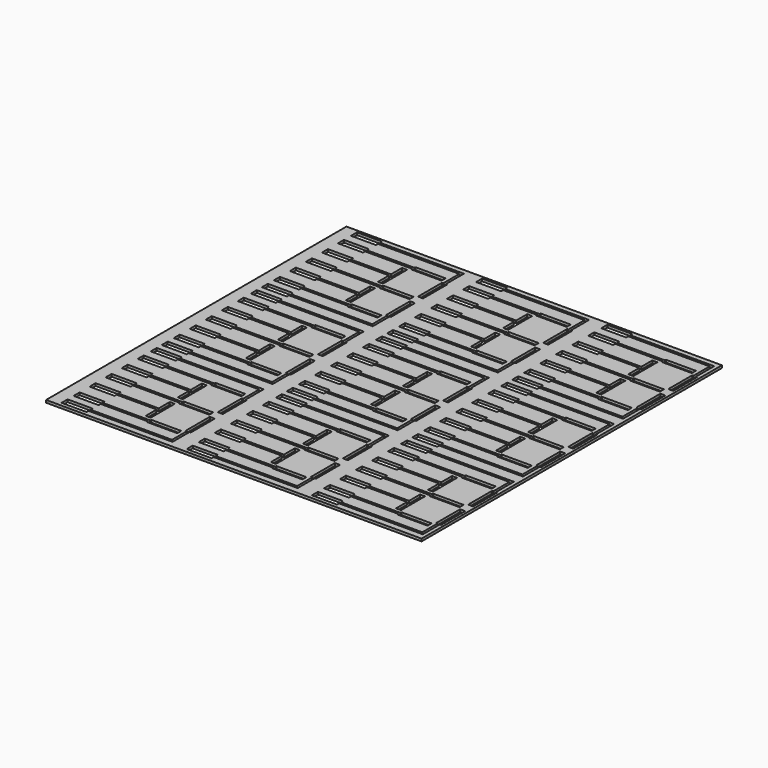
from build123d import *

# Parameters (mm, degrees)
F0_W     = 150
F0_H     = 150
F1_DEPTH = 1
F4_DEPTH = 1.001


with BuildPart() as f1:
    # F0 (on Top) → F1 (new body)
    with BuildSketch(Plane.XY):
        with Locations((75, 75)):
            Rectangle(F0_W, F0_H)
    extrude(amount=F1_DEPTH)

    # F3 (on face) → F4 (cut, through all)
    with BuildSketch(Plane.XY.offset(1)):
        Polygon((46, 142), (34, 142), (34, 141.5), (15, 141.5), (15, 142.5), (5, 142.5), (5, 139.5), (15, 139.5), (15, 140.5), (34, 140.5), (34, 140), (46, 140), align=None)
        Polygon((47.5, 139), (47, 139), (47, 127), (49, 127), (49, 139), (48.5, 139), align=None)
        Polygon((47.5, 147), (47.5, 139), (48.5, 139), (48.5, 148), (15, 148), (15, 149), (5, 149), (5, 146), (15, 146), (15, 147), align=None)
        Polygon((46, 124), (46, 126), (34, 126), (34, 125.5), (15, 125.5), (15, 126.5), (5, 126.5), (5, 123.5), (15, 123.5), (15, 124.5), (34, 124.5), (34, 124), align=None)
        Polygon((49, 123), (47, 123), (47, 111), (47.5, 111), (47.5, 103.5), (15, 103.5), (15, 104.5), (5, 104.5), (5, 101.5), (15, 101.5), (15, 102.5), (48.5, 102.5), (48.5, 111), (49, 111), align=None)
        Polygon((46, 108), (46, 110), (34, 110), (34, 109.5), (15, 109.5), (15, 110.5), (5, 110.5), (5, 107.5), (15, 107.5), (15, 108.5), (34, 108.5), (34, 108), align=None)
        Polygon((31, 111), (33, 111), (33, 123), (31, 123), (31, 117.5), (15, 117.5), (15, 118.5), (5, 118.5), (5, 115.5), (15, 115.5), (15, 116.5), (31, 116.5), align=None)
        Polygon((31, 127), (33, 127), (33, 139), (31, 139), (31, 133.5), (15, 133.5), (15, 134.5), (5, 134.5), (5, 131.5), (15, 131.5), (15, 132.5), (31, 132.5), align=None)
        Polygon((81, 132.5), (81, 127), (83, 127), (83, 139), (81, 139), (81, 133.5), (65, 133.5), (65, 134.5), (55, 134.5), (55, 131.5), (65, 131.5), (65, 132.5), align=None)
        Polygon((65, 117.5), (65, 118.5), (55, 118.5), (55, 115.5), (65, 115.5), (65, 116.5), (81, 116.5), (81, 111), (83, 111), (83, 123), (81, 123), (81, 117.5), align=None)
        Polygon((65, 102.5), (98.5, 102.5), (98.5, 111), (99, 111), (99, 123), (97, 123), (97, 111), (97.5, 111), (97.5, 103.5), (65, 103.5), (65, 104.5), (55, 104.5), (55, 101.5), (65, 101.5), align=None)
        Polygon((84, 110), (84, 109.5), (65, 109.5), (65, 110.5), (55, 110.5), (55, 107.5), (65, 107.5), (65, 108.5), (84, 108.5), (84, 108), (96, 108), (96, 110), align=None)
        Polygon((55, 142.5), (55, 139.5), (65, 139.5), (65, 140.5), (84, 140.5), (84, 140), (96, 140), (96, 142), (84, 142), (84, 141.5), (65, 141.5), (65, 142.5), align=None)
        Polygon((65, 147), (97.5, 147), (97.5, 139), (98.5, 139), (98.5, 148), (65, 148), (65, 149), (55, 149), (55, 146), (65, 146), align=None)
        Polygon((98.5, 139), (97.5, 139), (97, 139), (97, 127), (99, 127), (99, 139), align=None)
        Polygon((65, 124.5), (84, 124.5), (84, 124), (96, 124), (96, 126), (84, 126), (84, 125.5), (65, 125.5), (65, 126.5), (55, 126.5), (55, 123.5), (65, 123.5), align=None)
        Polygon((131, 132.5), (131, 127), (133, 127), (133, 139), (131, 139), (131, 133.5), (115, 133.5), (115, 134.5), (105, 134.5), (105, 131.5), (115, 131.5), (115, 132.5), align=None)
        Polygon((115, 117.5), (115, 118.5), (105, 118.5), (105, 115.5), (115, 115.5), (115, 116.5), (131, 116.5), (131, 111), (133, 111), (133, 123), (131, 123), (131, 117.5), align=None)
        Polygon((115, 102.5), (148.5, 102.5), (148.5, 111), (149, 111), (149, 123), (147, 123), (147, 111), (147.5, 111), (147.5, 103.5), (115, 103.5), (115, 104.5), (105, 104.5), (105, 101.5), (115, 101.5), align=None)
        Polygon((134, 110), (134, 109.5), (115, 109.5), (115, 110.5), (105, 110.5), (105, 107.5), (115, 107.5), (115, 108.5), (134, 108.5), (134, 108), (146, 108), (146, 110), align=None)
        Polygon((105, 142.5), (105, 139.5), (115, 139.5), (115, 140.5), (134, 140.5), (134, 140), (146, 140), (146, 142), (134, 142), (134, 141.5), (115, 141.5), (115, 142.5), align=None)
        Polygon((115, 147), (147.5, 147), (147.5, 139), (148.5, 139), (148.5, 148), (115, 148), (115, 149), (105, 149), (105, 146), (115, 146), align=None)
        Polygon((148.5, 139), (147.5, 139), (147, 139), (147, 127), (149, 127), (149, 139), align=None)
        Polygon((115, 124.5), (134, 124.5), (134, 124), (146, 124), (146, 126), (134, 126), (134, 125.5), (115, 125.5), (115, 126.5), (105, 126.5), (105, 123.5), (115, 123.5), align=None)
        Polygon((84, 58), (96, 58), (96, 60), (84, 60), (84, 59.5), (65, 59.5), (65, 60.5), (55, 60.5), (55, 57.5), (65, 57.5), (65, 58.5), (84, 58.5), align=None)
        Polygon((15, 92.5), (5, 92.5), (5, 89.5), (15, 89.5), (15, 90.5), (34, 90.5), (34, 90), (46, 90), (46, 92), (34, 92), (34, 91.5), (15, 91.5), align=None)
        Polygon((15, 75.5), (15, 76.5), (5, 76.5), (5, 73.5), (15, 73.5), (15, 74.5), (34, 74.5), (34, 74), (46, 74), (46, 76), (34, 76), (34, 75.5), align=None)
        Polygon((15, 53.5), (15, 54.5), (5, 54.5), (5, 51.5), (15, 51.5), (15, 52.5), (48.5, 52.5), (48.5, 61), (49, 61), (49, 73), (47, 73), (47, 61), (47.5, 61), (47.5, 53.5), align=None)
        Polygon((99, 61), (99, 73), (97, 73), (97, 61), (97.5, 61), (97.5, 53.5), (65, 53.5), (65, 54.5), (55, 54.5), (55, 51.5), (65, 51.5), (65, 52.5), (98.5, 52.5), (98.5, 61), align=None)
        Polygon((134, 76), (134, 75.5), (115, 75.5), (115, 76.5), (105, 76.5), (105, 73.5), (115, 73.5), (115, 74.5), (134, 74.5), (134, 74), (146, 74), (146, 76), align=None)
        Polygon((99, 77), (99, 89), (98.5, 89), (97.5, 89), (97, 89), (97, 77), align=None)
        Polygon((97.5, 89), (98.5, 89), (98.5, 98), (65, 98), (65, 99), (55, 99), (55, 96), (65, 96), (65, 97), (97.5, 97), align=None)
        Polygon((84, 76), (84, 75.5), (65, 75.5), (65, 76.5), (55, 76.5), (55, 73.5), (65, 73.5), (65, 74.5), (84, 74.5), (84, 74), (96, 74), (96, 76), align=None)
        Polygon((115, 84.5), (105, 84.5), (105, 81.5), (115, 81.5), (115, 82.5), (131, 82.5), (131, 77), (133, 77), (133, 89), (131, 89), (131, 83.5), (115, 83.5), align=None)
        Polygon((105, 51.5), (115, 51.5), (115, 52.5), (148.5, 52.5), (148.5, 61), (149, 61), (149, 73), (147, 73), (147, 61), (147.5, 61), (147.5, 53.5), (115, 53.5), (115, 54.5), (105, 54.5), align=None)
        Polygon((81, 73), (81, 67.5), (65, 67.5), (65, 68.5), (55, 68.5), (55, 65.5), (65, 65.5), (65, 66.5), (81, 66.5), (81, 61), (83, 61), (83, 73), align=None)
        Polygon((15, 68.5), (5, 68.5), (5, 65.5), (15, 65.5), (15, 66.5), (31, 66.5), (31, 61), (33, 61), (33, 73), (31, 73), (31, 67.5), (15, 67.5), align=None)
        Polygon((146, 92), (134, 92), (134, 91.5), (115, 91.5), (115, 92.5), (105, 92.5), (105, 89.5), (115, 89.5), (115, 90.5), (134, 90.5), (134, 90), (146, 90), align=None)
        Polygon((134, 58), (146, 58), (146, 60), (134, 60), (134, 59.5), (115, 59.5), (115, 60.5), (105, 60.5), (105, 57.5), (115, 57.5), (115, 58.5), (134, 58.5), align=None)
        Polygon((148.5, 89), (147.5, 89), (147, 89), (147, 77), (149, 77), (149, 89), align=None)
        Polygon((147.5, 97), (147.5, 89), (148.5, 89), (148.5, 98), (115, 98), (115, 99), (105, 99), (105, 96), (115, 96), (115, 97), align=None)
        Polygon((65, 83.5), (65, 84.5), (55, 84.5), (55, 81.5), (65, 81.5), (65, 82.5), (81, 82.5), (81, 77), (83, 77), (83, 89), (81, 89), (81, 83.5), align=None)
        Polygon((96, 92), (84, 92), (84, 91.5), (65, 91.5), (65, 92.5), (55, 92.5), (55, 89.5), (65, 89.5), (65, 90.5), (84, 90.5), (84, 90), (96, 90), align=None)
        Polygon((5, 57.5), (15, 57.5), (15, 58.5), (34, 58.5), (34, 58), (46, 58), (46, 60), (34, 60), (34, 59.5), (15, 59.5), (15, 60.5), (5, 60.5), align=None)
        Polygon((15, 83.5), (15, 84.5), (5, 84.5), (5, 81.5), (15, 81.5), (15, 82.5), (31, 82.5), (31, 77), (33, 77), (33, 89), (31, 89), (31, 83.5), align=None)
        Polygon((115, 67.5), (115, 68.5), (105, 68.5), (105, 65.5), (115, 65.5), (115, 66.5), (131, 66.5), (131, 61), (133, 61), (133, 73), (131, 73), (131, 67.5), align=None)
        Polygon((49, 77), (49, 89), (48.5, 89), (47.5, 89), (47, 89), (47, 77), align=None)
        Polygon((47.5, 89), (48.5, 89), (48.5, 98), (15, 98), (15, 99), (5, 99), (5, 96), (15, 96), (15, 97), (47.5, 97), align=None)
        Polygon((84, 8), (96, 8), (96, 10), (84, 10), (84, 9.5), (65, 9.5), (65, 10.5), (55, 10.5), (55, 7.5), (65, 7.5), (65, 8.5), (84, 8.5), align=None)
        Polygon((15, 42.5), (5, 42.5), (5, 39.5), (15, 39.5), (15, 40.5), (34, 40.5), (34, 40), (46, 40), (46, 42), (34, 42), (34, 41.5), (15, 41.5), align=None)
        Polygon((15, 25.5), (15, 26.5), (5, 26.5), (5, 23.5), (15, 23.5), (15, 24.5), (34, 24.5), (34, 24), (46, 24), (46, 26), (34, 26), (34, 25.5), align=None)
        Polygon((15, 3.5), (15, 4.5), (5, 4.5), (5, 1.5), (15, 1.5), (15, 2.5), (48.5, 2.5), (48.5, 11), (49, 11), (49, 23), (47, 23), (47, 11), (47.5, 11), (47.5, 3.5), align=None)
        Polygon((99, 11), (99, 23), (97, 23), (97, 11), (97.5, 11), (97.5, 3.5), (65, 3.5), (65, 4.5), (55, 4.5), (55, 1.5), (65, 1.5), (65, 2.5), (98.5, 2.5), (98.5, 11), align=None)
        Polygon((134, 26), (134, 25.5), (115, 25.5), (115, 26.5), (105, 26.5), (105, 23.5), (115, 23.5), (115, 24.5), (134, 24.5), (134, 24), (146, 24), (146, 26), align=None)
        Polygon((99, 27), (99, 39), (98.5, 39), (97.5, 39), (97, 39), (97, 27), align=None)
        Polygon((97.5, 39), (98.5, 39), (98.5, 48), (65, 48), (65, 49), (55, 49), (55, 46), (65, 46), (65, 47), (97.5, 47), align=None)
        Polygon((84, 26), (84, 25.5), (65, 25.5), (65, 26.5), (55, 26.5), (55, 23.5), (65, 23.5), (65, 24.5), (84, 24.5), (84, 24), (96, 24), (96, 26), align=None)
        Polygon((115, 34.5), (105, 34.5), (105, 31.5), (115, 31.5), (115, 32.5), (131, 32.5), (131, 27), (133, 27), (133, 39), (131, 39), (131, 33.5), (115, 33.5), align=None)
        Polygon((105, 1.5), (115, 1.5), (115, 2.5), (148.5, 2.5), (148.5, 11), (149, 11), (149, 23), (147, 23), (147, 11), (147.5, 11), (147.5, 3.5), (115, 3.5), (115, 4.5), (105, 4.5), align=None)
        Polygon((81, 23), (81, 17.5), (65, 17.5), (65, 18.5), (55, 18.5), (55, 15.5), (65, 15.5), (65, 16.5), (81, 16.5), (81, 11), (83, 11), (83, 23), align=None)
        Polygon((15, 18.5), (5, 18.5), (5, 15.5), (15, 15.5), (15, 16.5), (31, 16.5), (31, 11), (33, 11), (33, 23), (31, 23), (31, 17.5), (15, 17.5), align=None)
        Polygon((146, 42), (134, 42), (134, 41.5), (115, 41.5), (115, 42.5), (105, 42.5), (105, 39.5), (115, 39.5), (115, 40.5), (134, 40.5), (134, 40), (146, 40), align=None)
        Polygon((134, 8), (146, 8), (146, 10), (134, 10), (134, 9.5), (115, 9.5), (115, 10.5), (105, 10.5), (105, 7.5), (115, 7.5), (115, 8.5), (134, 8.5), align=None)
        Polygon((148.5, 39), (147.5, 39), (147, 39), (147, 27), (149, 27), (149, 39), align=None)
        Polygon((147.5, 47), (147.5, 39), (148.5, 39), (148.5, 48), (115, 48), (115, 49), (105, 49), (105, 46), (115, 46), (115, 47), align=None)
        Polygon((65, 33.5), (65, 34.5), (55, 34.5), (55, 31.5), (65, 31.5), (65, 32.5), (81, 32.5), (81, 27), (83, 27), (83, 39), (81, 39), (81, 33.5), align=None)
        Polygon((96, 42), (84, 42), (84, 41.5), (65, 41.5), (65, 42.5), (55, 42.5), (55, 39.5), (65, 39.5), (65, 40.5), (84, 40.5), (84, 40), (96, 40), align=None)
        Polygon((5, 7.5), (15, 7.5), (15, 8.5), (34, 8.5), (34, 8), (46, 8), (46, 10), (34, 10), (34, 9.5), (15, 9.5), (15, 10.5), (5, 10.5), align=None)
        Polygon((15, 33.5), (15, 34.5), (5, 34.5), (5, 31.5), (15, 31.5), (15, 32.5), (31, 32.5), (31, 27), (33, 27), (33, 39), (31, 39), (31, 33.5), align=None)
        Polygon((115, 17.5), (115, 18.5), (105, 18.5), (105, 15.5), (115, 15.5), (115, 16.5), (131, 16.5), (131, 11), (133, 11), (133, 23), (131, 23), (131, 17.5), align=None)
        Polygon((49, 27), (49, 39), (48.5, 39), (47.5, 39), (47, 39), (47, 27), align=None)
        Polygon((47.5, 39), (48.5, 39), (48.5, 48), (15, 48), (15, 49), (5, 49), (5, 46), (15, 46), (15, 47), (47.5, 47), align=None)
    extrude(amount=-F4_DEPTH, mode=Mode.SUBTRACT)


solid = f1.part
